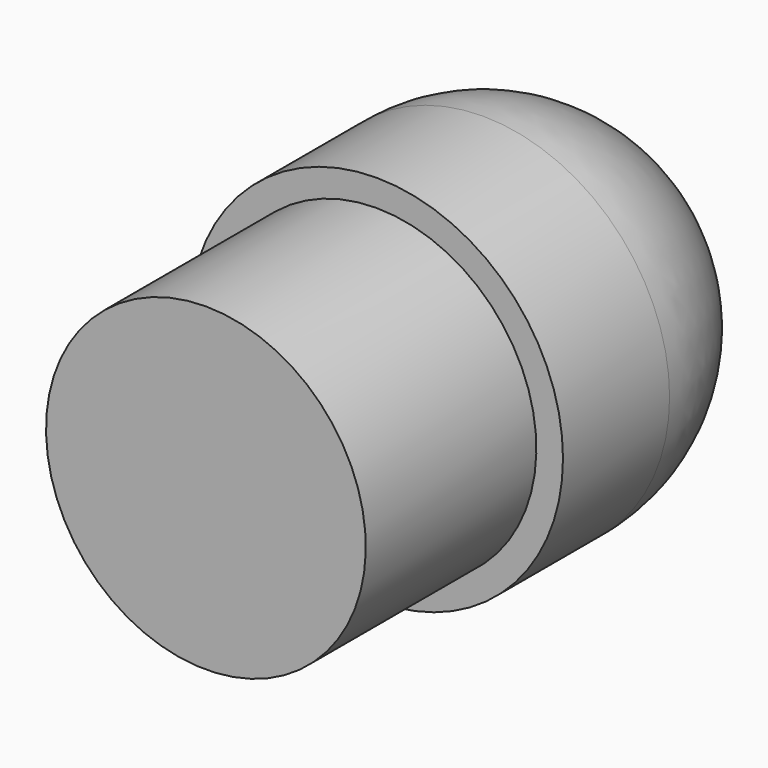
from build123d import *


with BuildPart() as f1:
    # F0 (on Right) → F1 (revolve)
    with BuildSketch(Plane.YZ):
        with BuildLine():
            Line((-25, 15), (-25, 0))
            Line((-25, 0), (25, 0))
            ThreePointArc((25, 0), (19.874369, 12.374369), (7.5, 17.5))
            Line((7.5, 17.5), (-5, 17.5))
            Line((-5, 17.5), (-5, 15))
            Line((-5, 15), (-25, 15))
        make_face()
    revolve(axis=Axis((0, 0, 0), (0, 1, 0)))


solid = f1.part
